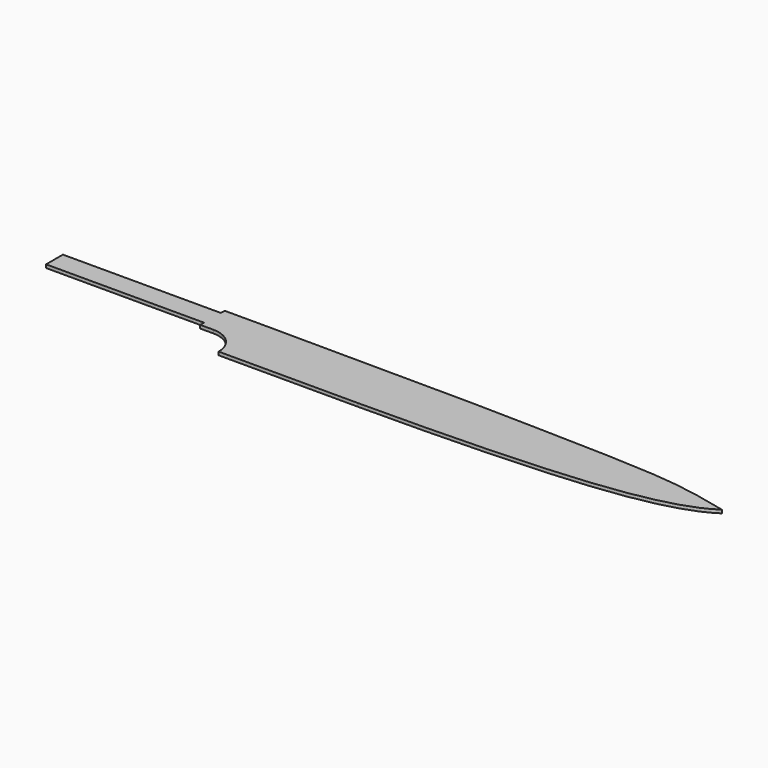
from build123d import *

# Parameters (mm, degrees)
F1_DEPTH = 1.5875


with BuildPart() as f1:
    # F0 (on Top) → F1 (new body)
    with BuildSketch(Plane.XY):
        with BuildLine():
            add(Edge.make_bspline(
                [(-114.7933404442, -13.7165485666), (-52.5788643197, -13.7176121355), (-60.7612932335, -13.7649623748), (-47.4697480252, -13.7176994769)],
                knots=[0, 0, 0, 0, 0.3139541006, 0.3139541006, 0.3139541006, 0.3139541006], degree=3))
            Line((-47.4697480245, -13.7176994769), (-114.7933404442, -13.7165485666))
        make_face()
        with BuildLine():
            Line((-114.7933404442, -13.7165485666), (-47.4697480245, -13.7176994769))
            add(Edge.make_bspline(
                [(-47.4697480252, -13.7176994769), (-31.2136484613, -13.6598950333), (55.2212973344, -13.3037576077), (102.1979471263, -3.8527257577), (113.8066595558, 4.0280892352)],
                knots=[0.3139541006, 0.3139541006, 0.3139541006, 0.3139541006, 0.6979327154, 1, 1, 1, 1], degree=3))
            add(Edge.make_bspline(
                [(-113.8134689446, 13.7154514334), (-16.5182186308, 13.409637043), (-25.1987455428, 13.2245364302), (76.0826591704, 11.6327858971), (96.0342944488, 8.2842421766), (113.8066595558, 4.0280892352)],
                knots=[0, 0, 0, 0, 0.4154461579, 0.7436002594, 1, 1, 1, 1], degree=3))
            Line((-113.8134689446, 13.7154514334), (-133.8433404442, 13.7154514334))
            Line((-133.8433404442, 13.7154514334), (-133.8433404442, 11.4294514334))
            Line((-133.8433404442, 11.4294514334), (-210.0433404442, 11.4294514334))
            Line((-210.0433404442, 11.4294514334), (-210.0433404442, 1.2694514334))
            Line((-210.0433404442, 1.2694514334), (-133.8433404442, 1.2694514334))
            Line((-133.8433404442, 1.2694514334), (-133.8433404442, -1.0165485666))
            Line((-133.8433404442, -1.0165485666), (-127.4933404442, -1.0165485666))
            ThreePointArc((-127.4933404442, -1.0165485666), (-118.5130843231, -4.7362924456), (-114.7933404442, -13.7165485666))
        make_face()
    extrude(amount=F1_DEPTH)


solid = f1.part
